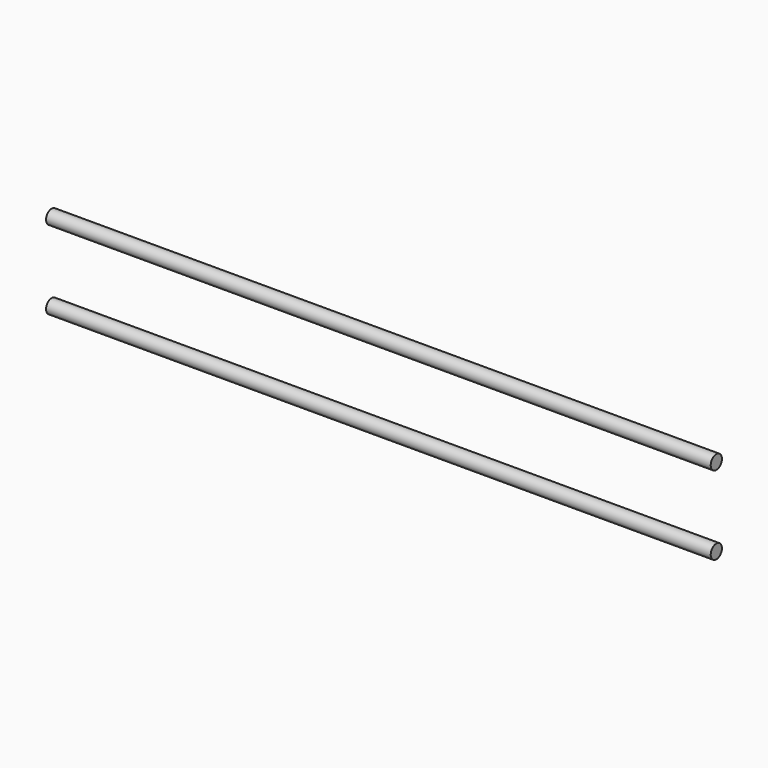
from build123d import *

# Parameters (mm, degrees)
F0_R     = 4
F1_DEPTH = 380


with BuildPart() as f1:
    # F0 (on Right) → F1 (new body)
    with BuildSketch(Plane.YZ):
        with Locations((0, 22.5)):
            Circle(F0_R)
        with Locations((0, -22.5)):
            Circle(F0_R)
    extrude(amount=F1_DEPTH)


with BuildPart() as f1_1:
    # F2: moved
    add(f1.part.moved(Location((-190, 0, 0))))


solid = f1_1.part
